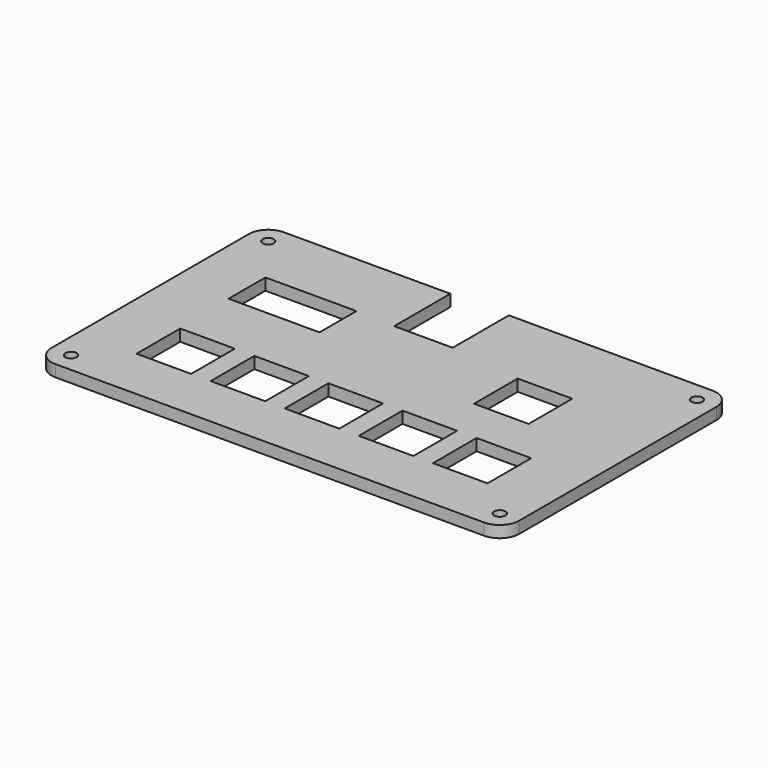
from build123d import *

# Parameters (mm, degrees)
SKETCH003_W      = 15
SKETCH003_H      = 3
EXTRUDE003_DEPTH = 18
SKETCH002_W      = 119.97
SKETCH002_H      = 73.25
SKETCH002_R      = 1.45
SKETCH002_W_2    = 14
SKETCH002_H_2    = 14
SKETCH002_W_3    = 23.344
SKETCH002_H_3    = 11.824
EXTRUDE002_DEPTH = 3
FILLET001_R      = 5


with BuildPart() as extrude003:
    # Sketch003 (on Face4 of Extrude002) → Extrude003 (new body)
    with BuildSketch(Plane(origin=(0, 63.25, 0), x_dir=(-1, 0, 0), z_dir=(0, 1, 0))):
        with Locations((-45.204, 23.5)):
            Rectangle(SKETCH003_W, SKETCH003_H)
    extrude(amount=-EXTRUDE003_DEPTH)


with BuildPart() as fillet001:
    # Sketch002 (on Face14 of Extrude001) → Extrude002 (new body)
    with BuildSketch(Plane.XY.offset(22)):
        with Locations((49.985, 26.625)):
            Rectangle(SKETCH002_W, SKETCH002_H)
        with Locations((104.97, -5)):
            Circle(SKETCH002_R, mode=Mode.SUBTRACT)
        with Locations((104.97, 58.25)):
            Circle(SKETCH002_R, mode=Mode.SUBTRACT)
        with Locations((-5, 58.25)):
            Circle(SKETCH002_R, mode=Mode.SUBTRACT)
        with Locations((-5, -5)):
            Circle(SKETCH002_R, mode=Mode.SUBTRACT)
        with Locations((87.902, 10.673)):
            Rectangle(SKETCH002_W_2, SKETCH002_H_2, mode=Mode.SUBTRACT)
        with Locations((68.896, 10.673)):
            Rectangle(SKETCH002_W_2, SKETCH002_H_2, mode=Mode.SUBTRACT)
        with Locations((49.89, 10.673)):
            Rectangle(SKETCH002_W_2, SKETCH002_H_2, mode=Mode.SUBTRACT)
        with Locations((30.884, 10.673)):
            Rectangle(SKETCH002_W_2, SKETCH002_H_2, mode=Mode.SUBTRACT)
        with Locations((11.878, 10.673)):
            Rectangle(SKETCH002_W_2, SKETCH002_H_2, mode=Mode.SUBTRACT)
        with Locations((78.22, 35.956)):
            Rectangle(SKETCH002_W_2, SKETCH002_H_2, mode=Mode.SUBTRACT)
        with Locations((16.038, 39.718)):
            Rectangle(SKETCH002_W_3, SKETCH002_H_3, mode=Mode.SUBTRACT)
    extrude(amount=EXTRUDE002_DEPTH)

    # Cut: cut Extrude003
    add(extrude003.part, mode=Mode.SUBTRACT)

    # Fillet001
    fillet001_edges = [fillet001.edges().sort_by_distance(p)[0] for p in [
        (-10, 63.25, 23.5),
        (-10, -10, 23.5),
        (109.97, -10, 23.5),
        (109.97, 63.25, 23.5),
    ]]
    fillet(fillet001_edges, radius=FILLET001_R)


solid = fillet001.part
